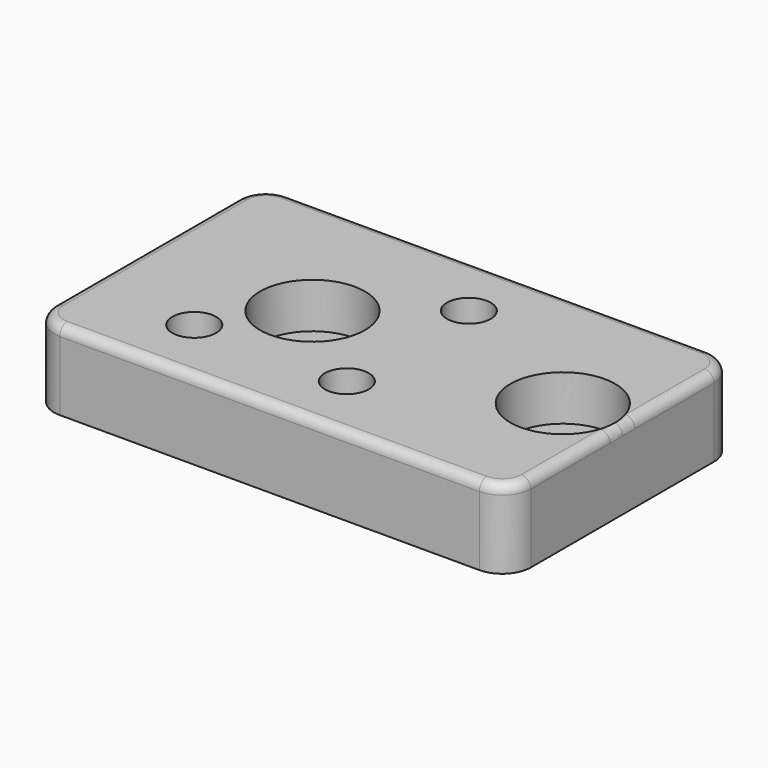
from build123d import *

# Parameters (mm, degrees)
SKETCH_W        = 50
SKETCH_H        = 30
PAD_DEPTH       = 8.25
SKETCH001_R     = 2.3
POCKET_DEPTH    = 8.251
SKETCH002_R     = 2.7
POCKET001_DEPTH = 8.251
SKETCH003_R     = 5.5
POCKET002_DEPTH = 4.75
FILLET_R        = 3
FILLET001_R     = 1


with BuildPart() as part:
    # Sketch → Pad (new body)
    with BuildSketch(Plane.XY):
        with Locations((25, 15)):
            Rectangle(SKETCH_W, SKETCH_H)
    extrude(amount=PAD_DEPTH)

    # Sketch001 (on Face6 of Pad) → Pocket (cut, through all)
    with BuildSketch(Plane.XY.offset(8.25)):
        with Locations((27.5, 23)):
            Circle(SKETCH001_R)
        with Locations((27.5, 7)):
            Circle(SKETCH001_R)
        with Locations((11.5, 7)):
            Circle(SKETCH001_R)
    extrude(amount=-POCKET_DEPTH, mode=Mode.SUBTRACT)

    # Sketch002 (on Face5 of Pocket) → Pocket001 (cut, through all)
    with BuildSketch(Plane.XY.offset(8.25)):
        with Locations((17.5, 15)):
            Circle(SKETCH002_R)
        with Locations((43.75, 15)):
            Circle(SKETCH002_R)
    extrude(amount=-POCKET001_DEPTH, mode=Mode.SUBTRACT)

    # Sketch003 (on Face5 of Pocket001) → Pocket002 (cut)
    with BuildSketch(Plane.XY.offset(8.25)):
        with Locations((43.75, 15)):
            Circle(SKETCH003_R)
        with Locations((17.5, 15)):
            Circle(SKETCH003_R)
    extrude(amount=-POCKET002_DEPTH, mode=Mode.SUBTRACT)

    # Fillet
    fillet_edges = [part.edges().sort_by_distance(p)[0] for p in [
        (50, 0, 4.125),
        (50, 30, 4.125),
        (0, 30, 4.125),
        (0, 0, 4.125),
    ]]
    fillet(fillet_edges, radius=FILLET_R)

    # Fillet001
    fillet001_edges = [part.edges().sort_by_distance(p)[0] for p in [
        (0, 15, 8.25),
        (0.87868, 29.12132, 8.25),
        (25, 30, 8.25),
        (49.12132, 29.12132, 8.25),
        (50, 15, 8.25),
        (49.12132, 0.87868, 8.25),
        (25, 0, 8.25),
        (0.87868, 0.87868, 8.25),
    ]]
    fillet(fillet001_edges, radius=FILLET001_R)


solid = part.part
